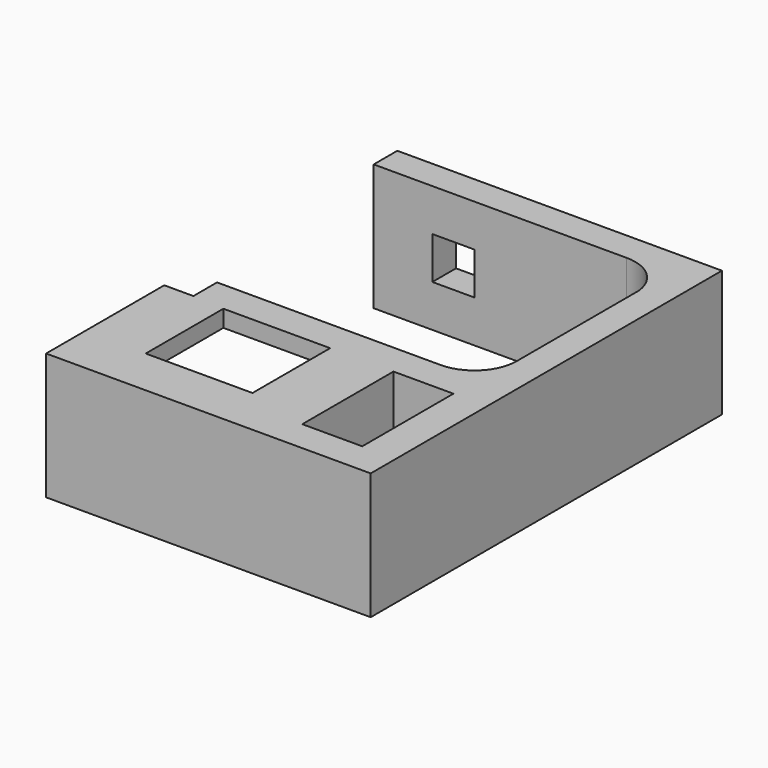
from build123d import *

# Parameters (mm, degrees)
PAD_DEPTH       = 30
POCKET_DEPTH    = 22
POCKET001_DEPTH = 6.9
SKETCH003_W     = 25.3
SKETCH003_H     = 23
SKETCH003_W_2   = 14.2
SKETCH003_H_2   = 27
POCKET002_DEPTH = 30
SKETCH004_W     = 10
SKETCH004_H     = 10
POCKET003_DEPTH = 50


with BuildPart() as part:
    # Sketch → Pad (new body)
    with BuildSketch(Plane.XY):
        with BuildLine():
            Line((-35, 42.015359), (-35, 35.015359))
            Line((-35, 35.015359), (24.9, 35.015359))
            ThreePointArc((34.9, 26.231153), (31.573738, 32.528651), (24.9, 35.015359))
            Line((34.9, -9.768847), (34.9, 26.231153))
            ThreePointArc((24.9, -20), (32.054064, -16.989821), (34.9, -9.768847))
            Line((24.9, -20), (-28.1, -20))
            Line((-28.1, -27), (-28.1, -20))
            Line((-35, -27), (-28.1, -27))
            Line((-35, -27), (-35, -62))
            Line((-35, -62), (41.9, -62))
            Line((41.9, -62), (41.9, 42.015359))
            Line((41.9, 42.015359), (-35, 42.015359))
        make_face()
    extrude(amount=PAD_DEPTH)

    # Sketch001 → Pocket (cut)
    with BuildSketch(Plane.XY.offset(4)):
        Polygon((-28.1, -20), (-28.1, -58.5), (12.2, -58.5), (12.2, -20), (-18.1, -20), (-18.1, -13.5), (-24.1, -13.5), (-24.1, -20), align=None)
    extrude(amount=POCKET_DEPTH, mode=Mode.SUBTRACT)

    # Sketch002 → Pocket001 (cut)
    with BuildSketch(Plane.YZ.offset(-35)):
        Polygon((-27, 26.185834), (-27, 14.185834), (-37, 14.185834), (-47, 4), (-57, 4), (-57, 26.185834), align=None)
    extrude(amount=POCKET001_DEPTH, mode=Mode.SUBTRACT)

    # Sketch003 → Pocket002 (cut)
    with BuildSketch(Plane.XY):
        with Locations((-7.95, -39)):
            Rectangle(SKETCH003_W, SKETCH003_H)
        with Locations((26.8, -41)):
            Rectangle(SKETCH003_W_2, SKETCH003_H_2)
    extrude(amount=POCKET002_DEPTH, mode=Mode.SUBTRACT)

    # Sketch004 → Pocket003 (cut)
    with BuildSketch(Plane.XZ):
        with Locations((-16.1, 15)):
            Rectangle(SKETCH004_W, SKETCH004_H)
    extrude(amount=-POCKET003_DEPTH, mode=Mode.SUBTRACT)


solid = part.part
